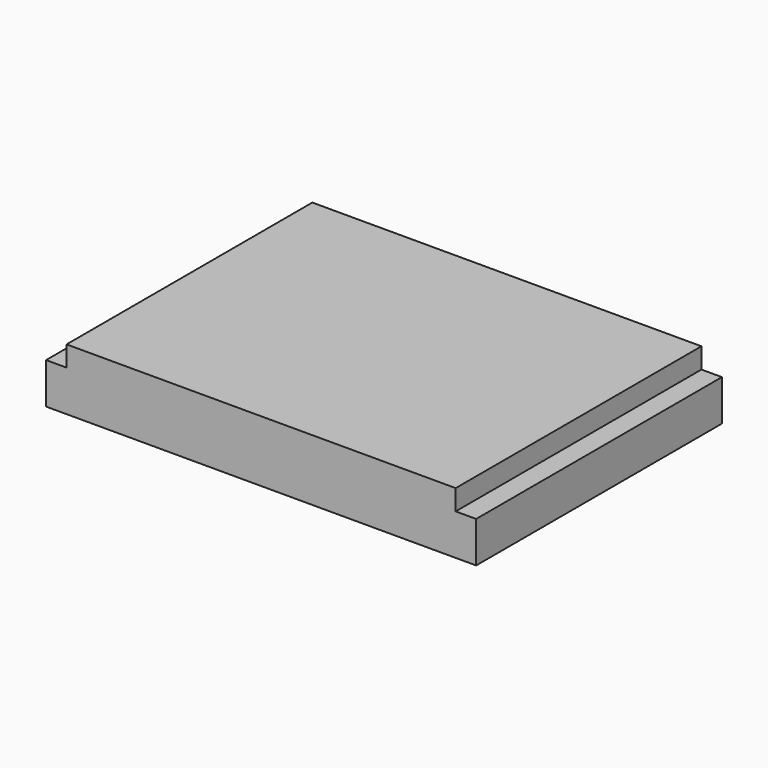
from build123d import *

# Parameters (mm, degrees)
F1_DEPTH = 15
F3_DEPTH = 10


with BuildPart() as f1:
    # F0 (on Front) → F1 (new body)
    with BuildSketch(Plane.XZ):
        Polygon((-28.551763, 0), (-7.551763, 0), (-7.551763, 2), (-8.551763, 2), (-8.551763, 3), (-27.551763, 3), (-27.551763, 2), (-28.551763, 2), align=None)
    extrude(amount=F1_DEPTH)

    # F2 (on face) → F3 (cut)
    with BuildSketch(Plane(origin=(0, 0, 0), x_dir=(-1, 0, 0), z_dir=(0, 1, 0))):
        Polygon((8.051763, 1.5), (8.051763, 0.5), (9.301763, 0.5), (9.301763, 1), (9.801763, 1), (9.801763, 0.5), (10.301763, 0.5), (10.301763, 1), (10.801763, 1), (10.801763, 0.5), (11.301763, 0.5), (11.301763, 1), (11.801763, 1), (11.801763, 0.5), (12.301763, 0.5), (12.301763, 1), (12.801763, 1), (12.801763, 0.5), (13.301763, 0.5), (13.301763, 1), (13.801763, 1), (13.801763, 0.5), (14.301763, 0.5), (14.301763, 1), (14.801763, 1), (14.801763, 0.5), (15.301763, 0.5), (15.301763, 1), (15.801763, 1), (15.801763, 0.5), (16.301763, 0.5), (16.301763, 1), (16.801763, 1), (16.801763, 0.5), (17.301763, 0.5), (17.301763, 1), (17.801763, 1), (17.801763, 0.5), (18.301763, 0.5), (18.301763, 1), (18.801763, 1), (18.801763, 0.5), (19.301763, 0.5), (19.301763, 1), (19.801763, 1), (19.801763, 0.5), (20.301763, 0.5), (20.301763, 1), (20.801763, 1), (20.801763, 0.5), (21.301763, 0.5), (21.301763, 1), (21.801763, 1), (21.801763, 0.5), (22.301763, 0.5), (22.301763, 1), (22.801763, 1), (22.801763, 0.5), (23.301763, 0.5), (23.301763, 1), (23.801763, 1), (23.801763, 0.5), (24.301763, 0.5), (24.301763, 1), (24.801763, 1), (24.801763, 0.5), (25.301763, 0.5), (25.301763, 1), (25.801763, 1), (25.801763, 0.5), (26.301763, 0.5), (26.301763, 1), (26.831981, 1), (26.831981, 0.5), (28.081981, 0.5), (28.081981, 1.5), (27.081981, 1.5), (27.081981, 2.5), (26.301763, 2.5), (26.301763, 2), (25.801763, 2), (25.801763, 2.5), (25.301763, 2.5), (25.301763, 2), (24.801763, 2), (24.801763, 2.5), (24.301763, 2.5), (24.301763, 2), (23.801763, 2), (23.801763, 2.5), (23.301763, 2.5), (23.301763, 2), (22.801763, 2), (22.801763, 2.5), (22.301763, 2.5), (22.301763, 2), (21.801763, 2), (21.801763, 2.5), (21.301763, 2.5), (21.301763, 2), (20.801763, 2), (20.801763, 2.5), (20.301763, 2.5), (20.301763, 2), (19.801763, 2), (19.801763, 2.5), (19.301763, 2.5), (19.301763, 2), (18.801763, 2), (18.801763, 2.5), (18.301763, 2.5), (18.301763, 2), (17.801763, 2), (17.801763, 2.5), (17.301763, 2.5), (17.301763, 2), (16.801763, 2), (16.801763, 2.5), (16.301763, 2.5), (16.301763, 2), (15.801763, 2), (15.801763, 2.5), (15.301763, 2.5), (15.301763, 2), (14.801763, 2), (14.801763, 2.5), (14.301763, 2.5), (14.301763, 2), (13.801763, 2), (13.801763, 2.5), (13.301763, 2.5), (13.301763, 2), (12.801763, 2), (12.801763, 2.5), (12.301763, 2.5), (12.301763, 2), (11.801763, 2), (11.801763, 2.5), (11.301763, 2.5), (11.301763, 2), (10.801763, 2), (10.801763, 2.5), (10.301763, 2.5), (10.301763, 2), (9.801763, 2), (9.801763, 2.5), (9.051763, 2.5), (9.051763, 1.5), align=None)
    extrude(amount=-F3_DEPTH, mode=Mode.SUBTRACT)


solid = f1.part
